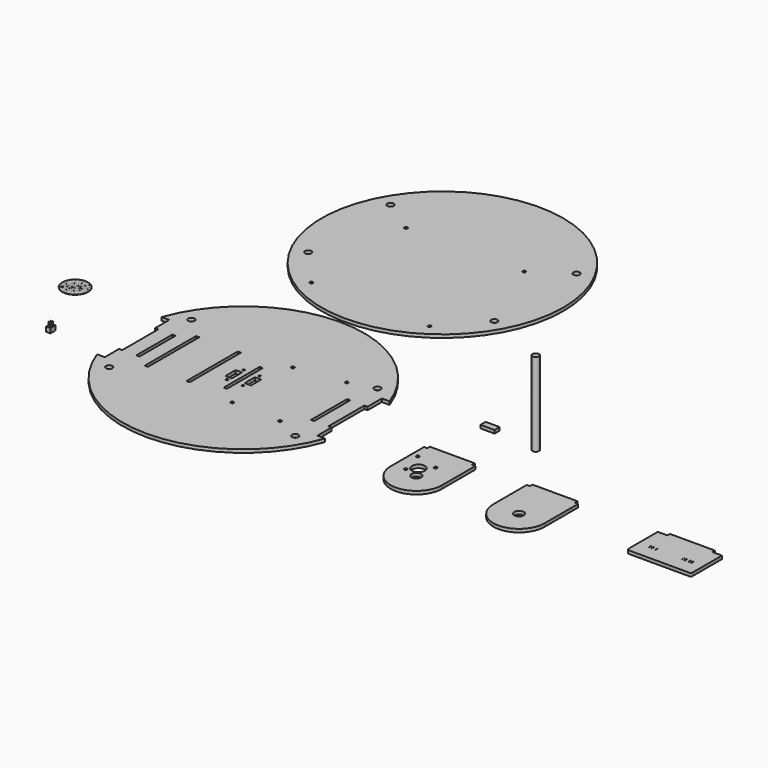
from build123d import *

# Parameters (mm, degrees)
F0_R      = 3.175
F0_W      = 3.175
F0_H      = 44.45
F0_H_2    = 63.5
F0_R_2    = 1.4986
F0_W_2    = 6.35
F0_H_3    = 12.7
F0_R_3    = 1.016
F1_DEPTH  = 3.175
F0_R_4    = 4.699
F0_R_5    = 1.4859
F0_R_6    = 6.4135
F0_R_7    = 119.6086
F0_W_3    = 13.97
F0_H_4    = 6.35
F2_W      = 4.3942
F2_H      = 6.096
F3_DEPTH  = 4.6482
F4_R      = 0.254
F5_DEPTH  = 3.81
F6_W      = 1.016
F6_H      = 3.302
F7_DEPTH  = 0.254
F8_R      = 0.381
F9_DEPTH  = 8.4592
F10_R     = 12.7
F11_DEPTH = 0.254
F13_DEPTH = 0.0508
F14_R     = 3.175
F15_DEPTH = 82.55


with BuildPart() as f1:
    # F0 (on Top) → F1 (new body)
    with BuildSketch(Plane.XY):
        with BuildLine():
            ThreePointArc((217.9066, 79.7581500131), (105.1433, 159.4863592758), (-7.62, 79.7581500131))
            Line((-7.62, 79.7581500131), (0, 79.7581500131))
            Line((0, 79.7581500131), (0, 62.1040750066))
            Line((0, 62.1040750066), (3.175, 62.1040750066))
            Line((3.175, 62.1040750066), (3.175, 17.6540750066))
            Line((3.175, 17.6540750066), (0, 17.6540750066))
            Line((0, 17.6540750066), (0, 0))
            Line((0, 0), (-7.62, 0))
            ThreePointArc((-7.62, 0), (105.1433, -79.7282092627), (217.9066, 0))
            Line((217.9066, 0), (210.2866, 0))
            Line((210.2866, 0), (210.2866, 17.6540750066))
            Line((210.2866, 17.6540750066), (207.1116, 17.6540750066))
            Line((207.1116, 17.6540750066), (207.1116, 62.1040750066))
            Line((207.1116, 62.1040750066), (210.2866, 62.1040750066))
            Line((210.2866, 62.1040750066), (210.2866, 79.7581500131))
            Line((210.2866, 79.7581500131), (217.9066, 79.7581500131))
        make_face()
        with Locations((13.0683, -10.9209249934)):
            Circle(F0_R, mode=Mode.SUBTRACT)
        with Locations((18.7325, 39.8790750066)):
            Rectangle(F0_W, F0_H, mode=Mode.SUBTRACT)
        with Locations((34.6075, 39.8790750066)):
            Rectangle(F0_W, F0_H_2, mode=Mode.SUBTRACT)
        with Locations((124.1933, 2.4140750066)):
            Circle(F0_R_2, mode=Mode.SUBTRACT)
        with Locations((75.8825, 39.8790750066)):
            Rectangle(F0_W, F0_H_2, mode=Mode.SUBTRACT)
        with Locations((95.6183, 39.8790750066)):
            Rectangle(F0_W_2, F0_H_3, mode=Mode.SUBTRACT)
        with Locations((97.2693, 29.4650750066)):
            Circle(F0_R_3, mode=Mode.SUBTRACT)
        with Locations((113.0173, 29.4650750066)):
            Circle(F0_R_3, mode=Mode.SUBTRACT)
        with Locations((105.1433, 39.8790750066)):
            Rectangle(F0_W, F0_H, mode=Mode.SUBTRACT)
        with Locations((114.6683, 39.8790750066)):
            Rectangle(F0_W_2, F0_H_3, mode=Mode.SUBTRACT)
        with Locations((197.2183, -10.9209249934)):
            Circle(F0_R, mode=Mode.SUBTRACT)
        with Locations((172.4533, 1.1440750066)):
            Circle(F0_R_2, mode=Mode.SUBTRACT)
        with Locations((191.5541, 39.8790750066)):
            Rectangle(F0_W, F0_H, mode=Mode.SUBTRACT)
        with Locations((13.0683, 90.6790750066)):
            Circle(F0_R, mode=Mode.SUBTRACT)
        with Locations((97.2693, 50.2930750066)):
            Circle(F0_R_3, mode=Mode.SUBTRACT)
        with Locations((113.0173, 50.2930750066)):
            Circle(F0_R_3, mode=Mode.SUBTRACT)
        with Locations((124.1933, 77.3440750066)):
            Circle(F0_R_2, mode=Mode.SUBTRACT)
        with Locations((172.4533, 83.6940750066)):
            Circle(F0_R_2, mode=Mode.SUBTRACT)
        with Locations((197.2183, 90.6790750066)):
            Circle(F0_R, mode=Mode.SUBTRACT)
    extrude(amount=F1_DEPTH)


with BuildPart() as f1b:
    # F0 (on Top) → F1, piece 2 (new body)
    with BuildSketch(Plane.XY):
        with BuildLine():
            Line((286.4866, 36.7040750066), (286.4866, -4.5709249934))
            ThreePointArc((286.4866, -4.5709249934), (311.8866, -29.9709249934), (337.2866, -4.5709249934))
            Line((337.2866, -4.5709249934), (337.2866, 36.7040750066))
            Line((337.2866, 36.7040750066), (334.1116, 36.7040750066))
            Line((334.1116, 36.7040750066), (334.1116, 39.8790750066))
            Line((334.1116, 39.8790750066), (289.6616, 39.8790750066))
            Line((289.6616, 39.8790750066), (289.6616, 36.7040750066))
            Line((289.6616, 36.7040750066), (286.4866, 36.7040750066))
        make_face()
        with Locations((311.8866, -4.5709249934)):
            Circle(F0_R_4, mode=Mode.SUBTRACT)
        with Locations((298.5885532142, -1.0308050561)):
            Circle(F0_R_5, mode=Mode.SUBTRACT)
        with Locations((305.4326052676, 6.1006151931)):
            Circle(F0_R_6, mode=Mode.SUBTRACT)
        with Locations((292.5864877945, 21.3692080407)):
            Circle(F0_R_5, mode=Mode.SUBTRACT)
        with Locations((314.9865008913, 15.367142621)):
            Circle(F0_R_5, mode=Mode.SUBTRACT)
    extrude(amount=F1_DEPTH)


with BuildPart() as f1c:
    # F0 (on Top) → F1, piece 3 (new body)
    with BuildSketch(Plane.XY):
        with BuildLine():
            Line((388.0866, 36.7040750066), (388.0866, -4.5709249934))
            ThreePointArc((388.0866, -4.5709249934), (413.4866, -29.9709249934), (438.8866, -4.5709249934))
            Line((438.8866, -4.5709249934), (438.8866, 36.7040750066))
            Line((438.8866, 36.7040750066), (435.7116, 36.7040750066))
            Line((435.7116, 36.7040750066), (435.7116, 39.8790750066))
            Line((435.7116, 39.8790750066), (391.2616, 39.8790750066))
            Line((391.2616, 39.8790750066), (391.2616, 36.7040750066))
            Line((391.2616, 36.7040750066), (388.0866, 36.7040750066))
        make_face()
        with Locations((413.4866, -4.5709249934)):
            Circle(F0_R_4, mode=Mode.SUBTRACT)
    extrude(amount=F1_DEPTH)


with BuildPart() as f1d:
    # F0 (on Top) → F1, piece 4 (new body)
    with BuildSketch(Plane.XY):
        with BuildLine():
            Line((570.0876850968, 41.7924265007), (525.6376850968, 41.7924265007))
            Line((525.6376850968, 41.7924265007), (525.6376850968, 38.6174265007))
            Line((525.6376850968, 38.6174265007), (516.1126850968, 38.6174265007))
            Line((516.1126850968, 38.6174265007), (516.1126850968, 2.1049265007))
            ThreePointArc((516.1126850968, 2.1049265007), (516.5776530816, 0.9823944856), (517.7001850968, 0.5174265007))
            Line((517.7001850968, 0.5174265007), (578.0251850968, 0.5174265007))
            ThreePointArc((578.0251850968, 0.5174265007), (579.1477171119, 0.9823944856), (579.6126850968, 2.1049265007))
            Line((579.6126850968, 2.1049265007), (579.6126850968, 38.6174265007))
            Line((579.6126850968, 38.6174265007), (570.0876850968, 38.6174265007))
            Line((570.0876850968, 38.6174265007), (570.0876850968, 41.7924265007))
        make_face()
    extrude(amount=F1_DEPTH)

    # F8 (on face) → F9 (cut, through all)
    with BuildSketch(Plane(origin=(0, 0, 0), x_dir=(1, 0, 0), z_dir=(0, 0, -1))):
        with Locations((527.0346850968, -16.6032465007)):
            Circle(F8_R)
        with Locations((529.5746850968, -16.6032465007)):
            Circle(F8_R)
        with Locations((527.0346850968, -14.4950465007)):
            Circle(F8_R)
        with Locations((529.5746850968, -14.4950465007)):
            Circle(F8_R)
        with Locations((533.3846850968, -16.6032465007)):
            Circle(F8_R)
        with Locations((535.9246850968, -16.6032465007)):
            Circle(F8_R)
        with Locations((533.3846850968, -14.4950465007)):
            Circle(F8_R)
        with Locations((535.9246850968, -14.4950465007)):
            Circle(F8_R)
        with Locations((559.8006850968, -16.6032465007)):
            Circle(F8_R)
        with Locations((562.3406850968, -16.6032465007)):
            Circle(F8_R)
        with Locations((559.8006850968, -14.4950465007)):
            Circle(F8_R)
        with Locations((562.3406850968, -14.4950465007)):
            Circle(F8_R)
        with Locations((566.1506850968, -16.6032465007)):
            Circle(F8_R)
        with Locations((568.6906850968, -16.6032465007)):
            Circle(F8_R)
        with Locations((566.1506850968, -14.4950465007)):
            Circle(F8_R)
        with Locations((568.6906850968, -14.4950465007)):
            Circle(F8_R)
    extrude(amount=-F9_DEPTH, mode=Mode.SUBTRACT)


with BuildPart() as f1e:
    # F0 (on Top) → F1, piece 5 (new body)
    with BuildSketch(Plane.XY):
        with Locations((105.1433, 286.0640214194)):
            Circle(F0_R_7)
        with Locations((46.64329, 197.1640214194)):
            Circle(F0_R_2, mode=Mode.SUBTRACT)
        with Locations((13.0683, 235.2640214194)):
            Circle(F0_R, mode=Mode.SUBTRACT)
        with Locations((163.64331, 197.1640214194)):
            Circle(F0_R_2, mode=Mode.SUBTRACT)
        with Locations((197.2183, 235.2640214194)):
            Circle(F0_R, mode=Mode.SUBTRACT)
        with Locations((46.64329, 314.1640414194)):
            Circle(F0_R_2, mode=Mode.SUBTRACT)
        with Locations((13.0683, 336.8640214194)):
            Circle(F0_R, mode=Mode.SUBTRACT)
        with Locations((163.64331, 314.1640414194)):
            Circle(F0_R_2, mode=Mode.SUBTRACT)
        with Locations((197.2183, 336.8640214194)):
            Circle(F0_R, mode=Mode.SUBTRACT)
    extrude(amount=F1_DEPTH)


with BuildPart() as f1f:
    # F0 (on Top) → F1, piece 6 (new body)
    with BuildSketch(Plane.XY):
        with Locations((304.2863520241, 96.0879049182)):
            Rectangle(F0_W_3, F0_H_4)
    extrude(amount=F1_DEPTH)


with BuildPart() as f3:
    # F2 (on Top) → F3 (new body)
    with BuildSketch(Plane.XY):
        with Locations((-63.5328011946, 12.6105808463)):
            Rectangle(F2_W, F2_H)
    extrude(amount=F3_DEPTH)

    # F4 (on face) → F5 (join)
    with BuildSketch(Plane.XY.offset(4.6482)):
        with Locations((-64.5869011946, 13.8805808463)):
            Circle(F4_R)
        with Locations((-62.4787011946, 13.8805808463)):
            Circle(F4_R)
        with Locations((-64.5869011946, 11.3405808463)):
            Circle(F4_R)
        with Locations((-62.4787011946, 11.3405808463)):
            Circle(F4_R)
    extrude(amount=F5_DEPTH)

    # F6 (on face) → F7 (cut)
    with BuildSketch(Plane(origin=(0, 0, 0), x_dir=(1, 0, 0), z_dir=(0, 0, -1))):
        with Locations((-62.4342511946, -12.6105808463)):
            Rectangle(F6_W, F6_H)
        with Locations((-64.6313511946, -12.6105808463)):
            Rectangle(F6_W, F6_H)
    extrude(amount=-F7_DEPTH, mode=Mode.SUBTRACT)


with BuildPart() as f11:
    # F10 (on Top) → F11 (new body)
    with BuildSketch(Plane.XY):
        with Locations((-94.6806743741, 81.7054063082)):
            Circle(F10_R)
    extrude(amount=F11_DEPTH)

    # F12 (on face) → F13 (cut)
    with BuildSketch(Plane.XY.offset(0.254)):
        with BuildLine():
            Line((-94.6806743741, 94.4054063082), (-94.6806743741, 88.0554063082))
            ThreePointArc((-94.6806743741, 88.0554063082), (-94.1824591162, 88.0358313774), (-93.6873155211, 87.977227271))
            Line((-93.6873155211, 87.977227271), (-94.64094002, 81.9562791467))
            ThreePointArc((-94.64094002, 81.9562791467), (-94.6021840575, 81.9469746633), (-94.5653607872, 81.9317219653))
            Line((-94.5653607872, 81.9317219653), (-91.7978347008, 87.3632977368))
            ThreePointArc((-91.7978347008, 87.3632977368), (-92.2506345786, 87.5720413396), (-92.7184164598, 87.7446151866))
            Line((-92.7184164598, 87.7446151866), (-90.7561585455, 93.7838240651))
            ThreePointArc((-90.7561585455, 93.7838240651), (-92.6939566681, 94.2490482337), (-94.6806743741, 94.4054063082))
        make_face()
        with BuildLine():
            Line((-102.1455470782, 91.9799221367), (-98.4131107262, 86.8426642225))
            ThreePointArc((-98.4131107262, 86.8426642225), (-97.99854026, 87.1196713518), (-97.5635140474, 87.3632977368))
            Line((-97.5635140474, 87.3632977368), (-94.795987961, 81.9317219653))
            ThreePointArc((-94.795987961, 81.9317219653), (-94.7591646907, 81.9469746633), (-94.7204087282, 81.9562791467))
            Line((-94.7204087282, 81.9562791467), (-95.6740332271, 87.977227271))
            ThreePointArc((-95.6740332271, 87.977227271), (-96.1630524346, 87.8799553027), (-96.6429322884, 87.7446151866))
            Line((-96.6429322884, 87.7446151866), (-98.6051902027, 93.7838240651))
            ThreePointArc((-98.6051902027, 93.7838240651), (-100.4463537208, 93.0211891654), (-102.1455470782, 91.9799221367))
        make_face()
        with BuildLine():
            Line((-106.7590921311, 85.6299221367), (-100.7198832526, 83.6676642225))
            ThreePointArc((-100.7198832526, 83.6676642225), (-100.5473094056, 84.1354461037), (-100.3385658027, 84.5882459815))
            Line((-100.3385658027, 84.5882459815), (-94.9069900312, 81.8207198951))
            ThreePointArc((-94.9069900312, 81.8207198951), (-94.8861646907, 81.8547037623), (-94.8602794965, 81.8850114306))
            Line((-94.8602794965, 81.8850114306), (-99.1708024346, 86.1955343687))
            ThreePointArc((-99.1708024346, 86.1955343687), (-99.5092522557, 85.8294014151), (-99.8179322884, 85.4378426602))
            Line((-99.8179322884, 85.4378426602), (-104.9551902027, 89.1702790123))
            ThreePointArc((-104.9551902027, 89.1702790123), (-105.9964572313, 87.4710856549), (-106.7590921311, 85.6299221367))
        make_face()
        with BuildLine():
            Line((-106.7590921311, 77.7808904796), (-100.7198832526, 79.7431483939))
            ThreePointArc((-100.7198832526, 79.7431483939), (-100.8552233686, 80.2230282477), (-100.9524953369, 80.7120474552))
            Line((-100.9524953369, 80.7120474552), (-94.9315472126, 81.6656719541))
            ThreePointArc((-94.9315472126, 81.6656719541), (-94.9346743741, 81.7054063082), (-94.9315472126, 81.7451406623))
            Line((-94.9315472126, 81.7451406623), (-100.9524953369, 82.6987651612))
            ThreePointArc((-100.9524953369, 82.6987651612), (-101.0110994433, 82.203621566), (-101.0306743741, 81.7054063082))
            Line((-101.0306743741, 81.7054063082), (-107.3806743741, 81.7054063082))
            ThreePointArc((-107.3806743741, 81.7054063082), (-107.2243162997, 79.7186886022), (-106.7590921311, 77.7808904796))
        make_face()
        with BuildLine():
            Line((-102.1455470782, 71.4308904796), (-98.4131107262, 76.5681483939))
            ThreePointArc((-98.4131107262, 76.5681483939), (-98.804669481, 76.8768284266), (-99.1708024346, 77.2152782476))
            Line((-99.1708024346, 77.2152782476), (-94.8602794965, 81.5258011858))
            ThreePointArc((-94.8602794965, 81.5258011858), (-94.8861646907, 81.5561088541), (-94.9069900312, 81.5900927212))
            Line((-94.9069900312, 81.5900927212), (-100.3385658027, 78.8225666348))
            ThreePointArc((-100.3385658027, 78.8225666348), (-100.0949394178, 78.3875404222), (-99.8179322884, 77.9729699561))
            Line((-99.8179322884, 77.9729699561), (-104.9551902027, 74.2405336041))
            ThreePointArc((-104.9551902027, 74.2405336041), (-103.6609304952, 72.7251501871), (-102.1455470782, 71.4308904796))
        make_face()
        with BuildLine():
            Line((-94.6806743741, 69.0054063082), (-94.6806743741, 75.3554063082))
            ThreePointArc((-94.6806743741, 75.3554063082), (-95.178889632, 75.374981239), (-95.6740332271, 75.4335853454))
            Line((-95.6740332271, 75.4335853454), (-94.7204087282, 81.4545334697))
            ThreePointArc((-94.7204087282, 81.4545334697), (-94.7591646907, 81.463837953), (-94.795987961, 81.479090651))
            Line((-94.795987961, 81.479090651), (-97.5635140474, 76.0475148796))
            ThreePointArc((-97.5635140474, 76.0475148796), (-97.1107141696, 75.8387712767), (-96.6429322884, 75.6661974297))
            Line((-96.6429322884, 75.6661974297), (-98.6051902027, 69.6269885512))
            ThreePointArc((-98.6051902027, 69.6269885512), (-96.6673920801, 69.1617643826), (-94.6806743741, 69.0054063082))
        make_face()
        with BuildLine():
            Line((-87.21580167, 71.4308904796), (-90.948238022, 76.5681483939))
            ThreePointArc((-90.948238022, 76.5681483939), (-91.3628084882, 76.2911412645), (-91.7978347008, 76.0475148796))
            Line((-91.7978347008, 76.0475148796), (-94.5653607872, 81.479090651))
            ThreePointArc((-94.5653607872, 81.479090651), (-94.6021840575, 81.463837953), (-94.64094002, 81.4545334697))
            Line((-94.64094002, 81.4545334697), (-93.6873155211, 75.4335853454))
            ThreePointArc((-93.6873155211, 75.4335853454), (-93.1982963136, 75.5308573136), (-92.7184164598, 75.6661974297))
            Line((-92.7184164598, 75.6661974297), (-90.7561585455, 69.6269885512))
            ThreePointArc((-90.7561585455, 69.6269885512), (-88.9149950274, 70.389623451), (-87.21580167, 71.4308904796))
        make_face()
        with BuildLine():
            Line((-82.6022566172, 77.7808904796), (-88.6414654956, 79.7431483939))
            ThreePointArc((-88.6414654956, 79.7431483939), (-88.8140393427, 79.2753665127), (-89.0227829455, 78.8225666348))
            Line((-89.0227829455, 78.8225666348), (-94.454358717, 81.5900927212))
            ThreePointArc((-94.454358717, 81.5900927212), (-94.4751840575, 81.5561088541), (-94.5010692517, 81.5258011858))
            Line((-94.5010692517, 81.5258011858), (-90.1905463136, 77.2152782476))
            ThreePointArc((-90.1905463136, 77.2152782476), (-89.8520964925, 77.5814112013), (-89.5434164598, 77.9729699561))
            Line((-89.5434164598, 77.9729699561), (-84.4061585455, 74.2405336041))
            ThreePointArc((-84.4061585455, 74.2405336041), (-83.3648915169, 75.9397269615), (-82.6022566172, 77.7808904796))
        make_face()
        with BuildLine():
            Line((-82.6022566172, 85.6299221367), (-88.6414654956, 83.6676642225))
            ThreePointArc((-88.6414654956, 83.6676642225), (-88.5061253796, 83.1877843687), (-88.4088534113, 82.6987651612))
            Line((-88.4088534113, 82.6987651612), (-94.4298015356, 81.7451406623))
            ThreePointArc((-94.4298015356, 81.7451406623), (-94.4266743741, 81.7054063082), (-94.4298015356, 81.6656719541))
            Line((-94.4298015356, 81.6656719541), (-88.4088534113, 80.7120474552))
            ThreePointArc((-88.4088534113, 80.7120474552), (-88.3502493049, 81.2071910503), (-88.3306743741, 81.7054063082))
            Line((-88.3306743741, 81.7054063082), (-81.9806743741, 81.7054063082))
            ThreePointArc((-81.9806743741, 81.7054063082), (-82.1370324485, 83.6921240142), (-82.6022566172, 85.6299221367))
        make_face()
        with BuildLine():
            Line((-87.21580167, 91.9799221367), (-90.948238022, 86.8426642225))
            ThreePointArc((-90.948238022, 86.8426642225), (-90.5566792672, 86.5339841897), (-90.1905463136, 86.1955343687))
            Line((-90.1905463136, 86.1955343687), (-94.5010692517, 81.8850114306))
            ThreePointArc((-94.5010692517, 81.8850114306), (-94.4751840575, 81.8547037623), (-94.454358717, 81.8207198951))
            Line((-94.454358717, 81.8207198951), (-89.0227829455, 84.5882459815))
            ThreePointArc((-89.0227829455, 84.5882459815), (-89.2664093305, 85.0232721941), (-89.5434164598, 85.4378426602))
            Line((-89.5434164598, 85.4378426602), (-84.4061585455, 89.1702790123))
            ThreePointArc((-84.4061585455, 89.1702790123), (-85.700418253, 90.6856624292), (-87.21580167, 91.9799221367))
        make_face()
    extrude(amount=-F13_DEPTH, mode=Mode.SUBTRACT)


with BuildPart() as f15:
    # F14 (on Top) → F15 (new body)
    with BuildSketch(Plane.XY):
        with Locations((353.1319499016, 91.495744884)):
            Circle(F14_R)
    extrude(amount=F15_DEPTH)


solid = Compound([f1.part, f1b.part, f1c.part, f1d.part, f1e.part, f1f.part, f3.part, f11.part, f15.part])
